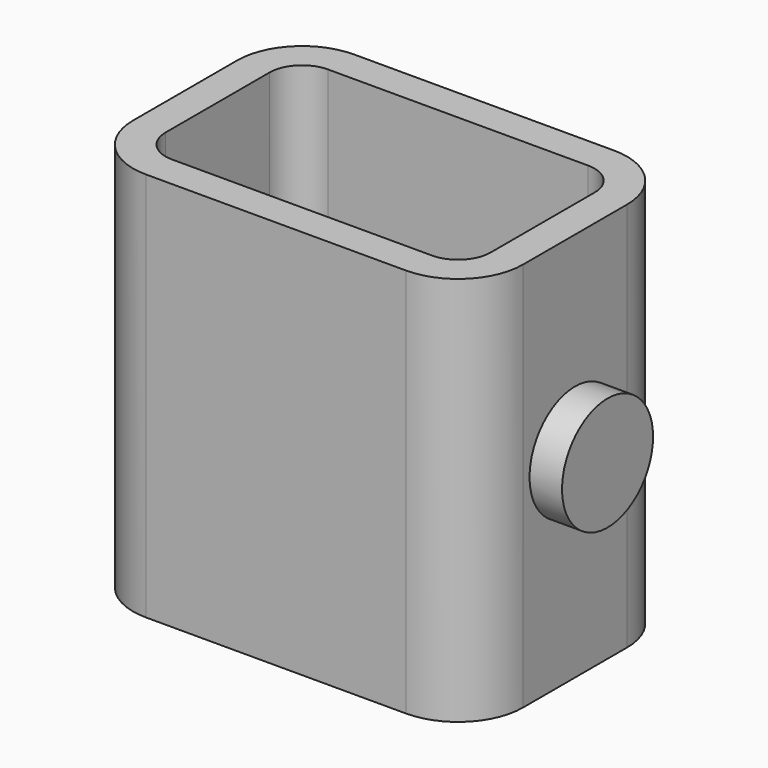
from build123d import *

# Parameters (mm, degrees)
F1_DEPTH = 304.8
F2_R     = 44.45
F3_DEPTH = 25.4


with BuildPart() as f1:
    # F0 (on Top) → F1 (new body)
    with BuildSketch(Plane.XY):
        with BuildLine():
            Line((152.4, -50.8), (152.4, 50.8))
            ThreePointArc((152.4, 50.8), (137.521024, 86.721024), (101.6, 101.6))
            Line((101.6, 101.6), (-101.6, 101.6))
            ThreePointArc((-101.6, 101.6), (-137.521024, 86.721024), (-152.4, 50.8))
            Line((-152.4, 50.8), (-152.4, -50.8))
            ThreePointArc((-152.4, -50.8), (-137.521024, -86.721024), (-101.6, -101.6))
            Line((-101.6, -101.6), (101.6, -101.6))
            ThreePointArc((101.6, -101.6), (137.521024, -86.721024), (152.4, -50.8))
        make_face()
        with BuildLine():
            Line((-101.6, 76.2), (101.6, 76.2))
            ThreePointArc((101.6, 76.2), (119.560512, 68.760512), (127, 50.8))
            Line((127, 50.8), (127, -50.8))
            ThreePointArc((127, -50.8), (119.560512, -68.760512), (101.6, -76.2))
            Line((101.6, -76.2), (-101.6, -76.2))
            ThreePointArc((-101.6, -76.2), (-119.560512, -68.760512), (-127, -50.8))
            Line((-127, -50.8), (-127, 50.8))
            ThreePointArc((-127, 50.8), (-119.560512, 68.760512), (-101.6, 76.2))
        make_face(mode=Mode.SUBTRACT)
    extrude(amount=F1_DEPTH)


with BuildPart() as f3:
    # F2 (on face) → F3 (new body)
    with BuildSketch(Plane.YZ.offset(152.4)):
        with Locations((0, 155.887615)):
            Circle(F2_R)
    extrude(amount=F3_DEPTH)


solid = Compound([f1.part, f3.part])
